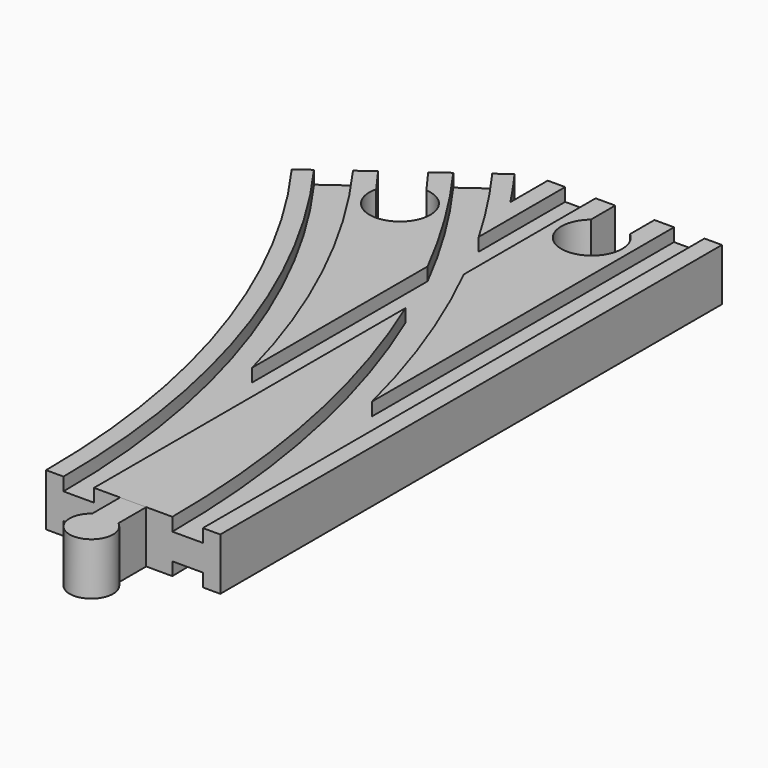
from build123d import *

# Parameters (mm, degrees)
SKETCH004_W     = 7
SKETCH004_H     = 3
SKETCH005_W     = 7
SKETCH005_H     = 3
POCKET_DEPTH    = 12.001
POCKET001_DEPTH = 12.001
SKETCH009_W     = 7
SKETCH009_H     = 3
SKETCH010_W     = 7
SKETCH010_H     = 3
PAD_DEPTH       = 6


with BuildPart() as body:
    # AdditivePipe: sweep along a path in Sketch002
    with BuildLine(Plane.XY) as additivepipe_path:
        ThreePointArc((0, 0), (-10.865453, 68.601773), (-42.398227, 130.488326))
    # Sketch → AdditivePipe (sweep)
    with BuildSketch(Plane.XZ):
        Polygon((-20, 6), (-20, -6), (-16, -6), (-16, -3), (-9, -3), (-9, -6), (9, -6), (9, -3), (16, -3), (16, -6), (20, -6), (20, 6), (16, 6), (16, 3), (9, 3), (9, 6), (-9, 6), (-9, 3), (-16, 3), (-16, 6), align=None)
    sweep(path=additivepipe_path.line)

    # AdditivePipe001: sweep along a path in Sketch001
    with BuildLine(Plane.XY) as additivepipe001_path:
        Line((0, 0), (0, 144))
    # Sketch → AdditivePipe001 (sweep)
    with BuildSketch(Plane.XZ):
        Polygon((-20, 6), (-20, -6), (-16, -6), (-16, -3), (-9, -3), (-9, -6), (9, -6), (9, -3), (16, -3), (16, -6), (20, -6), (20, 6), (16, 6), (16, 3), (9, 3), (9, 6), (-9, 6), (-9, 3), (-16, 3), (-16, 6), align=None)
    sweep(path=additivepipe001_path.line)

    # SubtractivePipe: sweep along a path in Sketch001
    with BuildLine(Plane.XY) as subtractivepipe_path:
        Line((0, 0), (0, 144))
    # Sketch004 → SubtractivePipe (sweep, cut)
    with BuildSketch(Plane.XZ):
        with Locations((-12.5, 4.5)):
            Rectangle(SKETCH004_W, SKETCH004_H)
    sweep(path=subtractivepipe_path.line, mode=Mode.SUBTRACT)

    # SubtractivePipe001: sweep along a path in Sketch002
    with BuildLine(Plane.XY) as subtractivepipe001_path:
        ThreePointArc((0, 0), (-10.865453, 68.601773), (-42.398227, 130.488326))
    # Sketch004 → SubtractivePipe001 (sweep, cut)
    with BuildSketch(Plane.XZ):
        with Locations((-12.5, 4.5)):
            Rectangle(SKETCH004_W, SKETCH004_H)
    sweep(path=subtractivepipe001_path.line, mode=Mode.SUBTRACT)

    # SubtractivePipe002: sweep along a path in Sketch002
    with BuildLine(Plane.XY) as subtractivepipe002_path:
        ThreePointArc((0, 0), (-10.865453, 68.601773), (-42.398227, 130.488326))
    # Sketch005 (on Face1 of SubtractivePipe001) → SubtractivePipe002 (sweep, cut)
    with BuildSketch(Plane.XZ):
        with Locations((12.5, 4.5)):
            Rectangle(SKETCH005_W, SKETCH005_H)
    sweep(path=subtractivepipe002_path.line, mode=Mode.SUBTRACT)

    # SubtractivePipe003: sweep along a path in Sketch001
    with BuildLine(Plane.XY) as subtractivepipe003_path:
        Line((0, 0), (0, 144))
    # Sketch005 (on Face1 of SubtractivePipe001) → SubtractivePipe003 (sweep, cut)
    with BuildSketch(Plane.XZ):
        with Locations((12.5, 4.5)):
            Rectangle(SKETCH005_W, SKETCH005_H)
    subtractivepipe003 = sweep(path=subtractivepipe003_path.line, mode=Mode.SUBTRACT)

    # Mirrored: SubtractivePipe003 across XY
    add(subtractivepipe003.mirror(Plane.XY), mode=Mode.SUBTRACT)

    # Sketch006 (on Face53 of Mirrored) → Pocket (cut, through all)
    with BuildSketch(Plane(origin=(0, 0, 6), x_dir=(-1, 0, 0), z_dir=(0, 0, 1))):
        with BuildLine():
            Line((38.757651, -133.13336), (46.038804, -127.843292))
            Line((46.038804, -127.843292), (41.924307, -122.180173))
            ThreePointArc((41.924307, -122.180173), (31.017586, -114.824218), (34.643154, -127.470241))
            Line((38.757651, -133.13336), (34.643154, -127.470241))
        make_face()
    extrude(amount=-POCKET_DEPTH, mode=Mode.SUBTRACT)

    # Sketch007 (on Face63 of Pocket) → Pocket001 (cut, through all)
    with BuildSketch(Plane(origin=(0, 0, 6), x_dir=(-1, 0, 0), z_dir=(0, 0, 1))):
        with BuildLine():
            Line((-4.5, -144), (4.5, -144))
            Line((4.5, -144), (4.5, -137))
            ThreePointArc((4.5, -137), (0, -124.638097), (-4.5, -137))
            Line((-4.5, -144), (-4.5, -137))
        make_face()
    extrude(amount=-POCKET001_DEPTH, mode=Mode.SUBTRACT)

    # SubtractivePipe004: sweep along a path in Sketch002
    with BuildLine(Plane.XY) as subtractivepipe004_path:
        ThreePointArc((0, 0), (-10.865453, 68.601773), (-42.398227, 130.488326))
    # Sketch009 → SubtractivePipe004 (sweep, cut)
    with BuildSketch(Plane.XZ):
        with Locations((-12.5, -4.5)):
            Rectangle(SKETCH009_W, SKETCH009_H)
    sweep(path=subtractivepipe004_path.line, mode=Mode.SUBTRACT)

    # SubtractivePipe005: sweep along a path in Sketch001
    with BuildLine(Plane.XY) as subtractivepipe005_path:
        Line((0, 0), (0, 144))
    # Sketch009 → SubtractivePipe005 (sweep, cut)
    with BuildSketch(Plane.XZ):
        with Locations((-12.5, -4.5)):
            Rectangle(SKETCH009_W, SKETCH009_H)
    sweep(path=subtractivepipe005_path.line, mode=Mode.SUBTRACT)

    # SubtractivePipe006: sweep along a path in Sketch002
    with BuildLine(Plane.XY) as subtractivepipe006_path:
        ThreePointArc((0, 0), (-10.865453, 68.601773), (-42.398227, 130.488326))
    # Sketch010 (on Face1 of SubtractivePipe005) → SubtractivePipe006 (sweep, cut)
    with BuildSketch(Plane.XZ):
        with Locations((12.5, -4.5)):
            Rectangle(SKETCH010_W, SKETCH010_H)
    sweep(path=subtractivepipe006_path.line, mode=Mode.SUBTRACT)


with BuildPart() as body001:
    # Sketch008 → Pad (new body, symmetric)
    with BuildSketch(Plane.XY):
        with BuildLine():
            Line((-3, 0), (3, 0))
            Line((3, 0), (3, -8))
            ThreePointArc((-3, -8), (0, -17), (3, -8))
            Line((-3, 0), (-3, -8))
        make_face()
    extrude(amount=PAD_DEPTH, both=True)


solid = Compound([body.part, body001.part])
